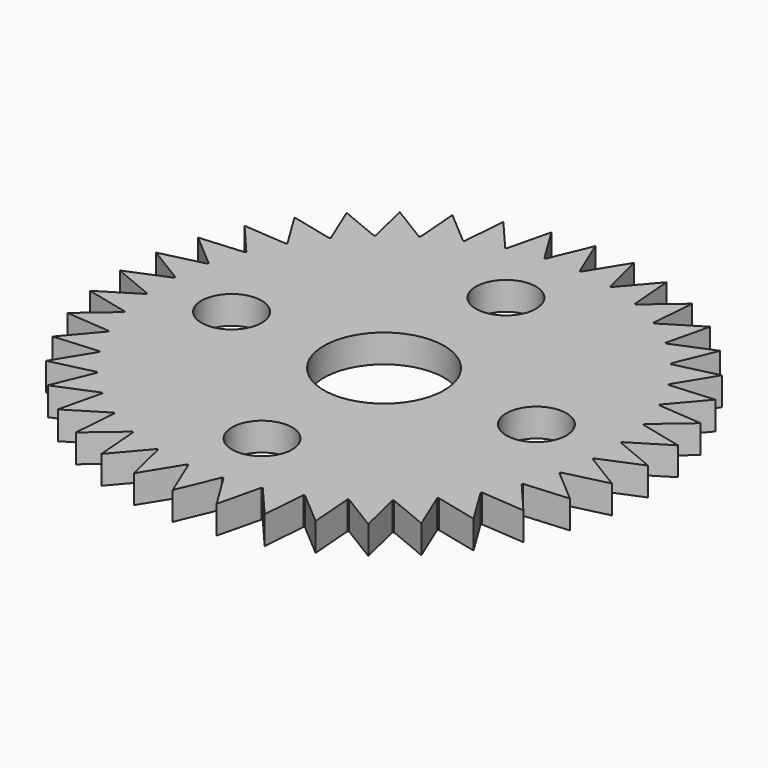
from build123d import *

# Parameters (mm, degrees)
F0_R     = 7.5
F0_R_2   = 15
F1_DEPTH = 7


with BuildPart() as f1:
    # F0 (on Top) → F1 (new body)
    with BuildSketch(Plane.XY):
        with BuildLine():
            ThreePointArc((55.694874, -4.217312), (55.814442, -2.110162), (55.854316, 0))
            ThreePointArc((55.854316, 0), (55.814442, 2.110162), (55.694874, 4.217312))
            ThreePointArc((55.694874, 4.217312), (55.682136, 4.382279), (55.66891, 4.547208))
            ThreePointArc((55.66891, 4.547208), (55.166657, 8.73754), (54.349444, 12.877988))
            ThreePointArc((54.349444, 12.877988), (54.311057, 13.038931), (54.272194, 13.19976))
            ThreePointArc((54.272194, 13.19976), (53.120612, 17.259933), (51.665751, 21.221565))
            ThreePointArc((51.665751, 21.221565), (51.60266, 21.374522), (51.539115, 21.527291))
            ThreePointArc((51.539115, 21.527291), (49.76656, 25.357329), (47.709876, 29.042596))
            ThreePointArc((47.709876, 29.042596), (47.623634, 29.1838), (47.536973, 29.324748))
            ThreePointArc((47.536973, 29.324748), (45.187091, 32.830343), (42.579225, 36.148502))
            ThreePointArc((42.579225, 36.148502), (42.471955, 36.274477), (42.364313, 36.400133))
            ThreePointArc((42.364313, 36.400133), (39.494966, 39.494966), (36.400133, 42.364313))
            ThreePointArc((36.400133, 42.364313), (36.274477, 42.471955), (36.148502, 42.579225))
            ThreePointArc((36.148502, 42.579225), (32.830343, 45.187091), (29.324748, 47.536973))
            ThreePointArc((29.324748, 47.536973), (29.1838, 47.623634), (29.042596, 47.709876))
            ThreePointArc((29.042596, 47.709876), (25.357329, 49.76656), (21.527291, 51.539115))
            ThreePointArc((21.527291, 51.539115), (21.374522, 51.60266), (21.221565, 51.665751))
            ThreePointArc((21.221565, 51.665751), (17.259933, 53.120612), (13.19976, 54.272194))
            ThreePointArc((13.19976, 54.272194), (13.038931, 54.311057), (12.877988, 54.349444))
            ThreePointArc((12.877988, 54.349444), (8.73754, 55.166657), (4.547208, 55.66891))
            ThreePointArc((4.547208, 55.66891), (4.382279, 55.682136), (4.217312, 55.694874))
            ThreePointArc((4.217312, 55.694874), (0, 55.854316), (-4.217312, 55.694874))
            ThreePointArc((-4.217312, 55.694874), (-4.382279, 55.682136), (-4.547208, 55.66891))
            ThreePointArc((-4.547208, 55.66891), (-8.73754, 55.166657), (-12.877988, 54.349444))
            ThreePointArc((-12.877988, 54.349444), (-13.038931, 54.311057), (-13.19976, 54.272194))
            ThreePointArc((-13.19976, 54.272194), (-17.259933, 53.120612), (-21.221565, 51.665751))
            ThreePointArc((-21.221565, 51.665751), (-21.374522, 51.60266), (-21.527291, 51.539115))
            ThreePointArc((-21.527291, 51.539115), (-25.357329, 49.76656), (-29.042596, 47.709876))
            ThreePointArc((-29.042596, 47.709876), (-29.1838, 47.623634), (-29.324748, 47.536973))
            ThreePointArc((-29.324748, 47.536973), (-32.830343, 45.187091), (-36.148502, 42.579225))
            ThreePointArc((-36.148502, 42.579225), (-36.274477, 42.471955), (-36.400133, 42.364313))
            ThreePointArc((-36.400133, 42.364313), (-39.494966, 39.494966), (-42.364313, 36.400133))
            ThreePointArc((-42.364313, 36.400133), (-42.471955, 36.274477), (-42.579225, 36.148502))
            ThreePointArc((-42.579225, 36.148502), (-45.187091, 32.830343), (-47.536973, 29.324748))
            ThreePointArc((-47.536973, 29.324748), (-47.623634, 29.1838), (-47.709876, 29.042596))
            ThreePointArc((-47.709876, 29.042596), (-49.76656, 25.357329), (-51.539115, 21.527291))
            ThreePointArc((-51.539115, 21.527291), (-51.60266, 21.374522), (-51.665751, 21.221565))
            ThreePointArc((-51.665751, 21.221565), (-53.120612, 17.259933), (-54.272194, 13.19976))
            ThreePointArc((-54.272194, 13.19976), (-54.311057, 13.038931), (-54.349444, 12.877988))
            ThreePointArc((-54.349444, 12.877988), (-55.166657, 8.73754), (-55.66891, 4.547208))
            ThreePointArc((-55.66891, 4.547208), (-55.682136, 4.382279), (-55.694874, 4.217312))
            ThreePointArc((-55.694874, 4.217312), (-55.854316, 0), (-55.694874, -4.217312))
            ThreePointArc((-55.694874, -4.217312), (-55.682136, -4.382279), (-55.66891, -4.547208))
            ThreePointArc((-55.66891, -4.547208), (-55.166657, -8.73754), (-54.349444, -12.877988))
            ThreePointArc((-54.349444, -12.877988), (-54.311057, -13.038931), (-54.272194, -13.19976))
            ThreePointArc((-54.272194, -13.19976), (-53.120612, -17.259933), (-51.665751, -21.221565))
            ThreePointArc((-51.665751, -21.221565), (-51.60266, -21.374522), (-51.539115, -21.527291))
            ThreePointArc((-51.539115, -21.527291), (-49.76656, -25.357329), (-47.709876, -29.042596))
            ThreePointArc((-47.709876, -29.042596), (-47.623634, -29.1838), (-47.536973, -29.324748))
            ThreePointArc((-47.536973, -29.324748), (-45.187091, -32.830343), (-42.579225, -36.148502))
            ThreePointArc((-42.579225, -36.148502), (-42.471955, -36.274477), (-42.364313, -36.400133))
            ThreePointArc((-42.364313, -36.400133), (-39.494966, -39.494966), (-36.400133, -42.364313))
            ThreePointArc((-36.400133, -42.364313), (-36.274477, -42.471955), (-36.148502, -42.579225))
            ThreePointArc((-36.148502, -42.579225), (-32.830343, -45.187091), (-29.324748, -47.536973))
            ThreePointArc((-29.324748, -47.536973), (-29.1838, -47.623634), (-29.042596, -47.709876))
            ThreePointArc((-29.042596, -47.709876), (-25.357329, -49.76656), (-21.527291, -51.539115))
            ThreePointArc((-21.527291, -51.539115), (-21.374522, -51.60266), (-21.221565, -51.665751))
            ThreePointArc((-21.221565, -51.665751), (-17.259933, -53.120612), (-13.19976, -54.272194))
            ThreePointArc((-13.19976, -54.272194), (-13.038931, -54.311057), (-12.877988, -54.349444))
            ThreePointArc((-12.877988, -54.349444), (-8.73754, -55.166657), (-4.547208, -55.66891))
            ThreePointArc((-4.547208, -55.66891), (-4.382279, -55.682136), (-4.217312, -55.694874))
            ThreePointArc((-4.217312, -55.694874), (0, -55.854316), (4.217312, -55.694874))
            ThreePointArc((4.217312, -55.694874), (4.382279, -55.682136), (4.547208, -55.66891))
            ThreePointArc((4.547208, -55.66891), (8.73754, -55.166657), (12.877988, -54.349444))
            ThreePointArc((12.877988, -54.349444), (13.038931, -54.311057), (13.19976, -54.272194))
            ThreePointArc((13.19976, -54.272194), (17.259933, -53.120612), (21.221565, -51.665751))
            ThreePointArc((21.221565, -51.665751), (21.374522, -51.60266), (21.527291, -51.539115))
            ThreePointArc((21.527291, -51.539115), (25.357329, -49.76656), (29.042596, -47.709876))
            ThreePointArc((29.042596, -47.709876), (29.1838, -47.623634), (29.324748, -47.536973))
            ThreePointArc((29.324748, -47.536973), (32.830343, -45.187091), (36.148502, -42.579225))
            ThreePointArc((36.148502, -42.579225), (36.274477, -42.471955), (36.400133, -42.364313))
            ThreePointArc((36.400133, -42.364313), (39.494966, -39.494966), (42.364313, -36.400133))
            ThreePointArc((42.364313, -36.400133), (42.471955, -36.274477), (42.579225, -36.148502))
            ThreePointArc((42.579225, -36.148502), (45.187091, -32.830343), (47.536973, -29.324748))
            ThreePointArc((47.536973, -29.324748), (47.623634, -29.1838), (47.709876, -29.042596))
            ThreePointArc((47.709876, -29.042596), (49.76656, -25.357329), (51.539115, -21.527291))
            ThreePointArc((51.539115, -21.527291), (51.60266, -21.374522), (51.665751, -21.221565))
            ThreePointArc((51.665751, -21.221565), (53.120612, -17.259933), (54.272194, -13.19976))
            ThreePointArc((54.272194, -13.19976), (54.311057, -13.038931), (54.349444, -12.877988))
            ThreePointArc((54.349444, -12.877988), (55.166657, -8.73754), (55.66891, -4.547208))
            ThreePointArc((55.66891, -4.547208), (55.682136, -4.382279), (55.694874, -4.217312))
        make_face()
        with Locations((0, -38)):
            Circle(F0_R, mode=Mode.SUBTRACT)
        with Locations((-38, 0)):
            Circle(F0_R, mode=Mode.SUBTRACT)
        Circle(F0_R_2, mode=Mode.SUBTRACT)
        with Locations((38, 0)):
            Circle(F0_R, mode=Mode.SUBTRACT)
        with Locations((0, 38)):
            Circle(F0_R, mode=Mode.SUBTRACT)
        with BuildLine():
            ThreePointArc((55.694874, 4.217312), (55.814442, 2.110162), (55.854316, 0))
            ThreePointArc((55.854316, 0), (55.814442, -2.110162), (55.694874, -4.217312))
            Line((55.694874, -4.217312), (65.854316, 0))
            Line((65.854316, 0), (55.694874, 4.217312))
        make_face()
        with BuildLine():
            ThreePointArc((54.349444, 12.877988), (55.166657, 8.73754), (55.66891, 4.547208))
            Line((55.66891, 4.547208), (65.043541, 10.301885))
            Line((65.043541, 10.301885), (54.349444, 12.877988))
        make_face()
        with BuildLine():
            Line((65.043541, -10.301885), (55.66891, -4.547208))
            ThreePointArc((55.66891, -4.547208), (55.166657, -8.73754), (54.349444, -12.877988))
            Line((54.349444, -12.877988), (65.043541, -10.301885))
        make_face()
        with BuildLine():
            ThreePointArc((51.665751, 21.221565), (53.120612, 17.259933), (54.272194, 13.19976))
            Line((54.272194, 13.19976), (62.631177, 20.350103))
            Line((62.631177, 20.350103), (51.665751, 21.221565))
        make_face()
        with BuildLine():
            Line((62.631177, -20.350103), (54.272194, -13.19976))
            ThreePointArc((54.272194, -13.19976), (53.120612, -17.259933), (51.665751, -21.221565))
            Line((51.665751, -21.221565), (62.631177, -20.350103))
        make_face()
        with BuildLine():
            ThreePointArc((47.709876, 29.042596), (49.76656, 25.357329), (51.539115, 21.527291))
            Line((51.539115, 21.527291), (58.676626, 29.897234))
            Line((58.676626, 29.897234), (47.709876, 29.042596))
        make_face()
        with BuildLine():
            Line((58.676626, -29.897234), (51.539115, -21.527291))
            ThreePointArc((51.539115, -21.527291), (49.76656, -25.357329), (47.709876, -29.042596))
            Line((47.709876, -29.042596), (58.676626, -29.897234))
        make_face()
        with BuildLine():
            ThreePointArc((42.579225, 36.148502), (45.187091, 32.830343), (47.536973, 29.324748))
            Line((47.536973, 29.324748), (53.277261, 38.708196))
            Line((53.277261, 38.708196), (42.579225, 36.148502))
        make_face()
        with BuildLine():
            Line((53.277261, -38.708196), (47.536973, -29.324748))
            ThreePointArc((47.536973, -29.324748), (45.187091, -32.830343), (42.579225, -36.148502))
            Line((42.579225, -36.148502), (53.277261, -38.708196))
        make_face()
        with BuildLine():
            ThreePointArc((36.400133, 42.364313), (39.494966, 39.494966), (42.364313, 36.400133))
            Line((42.364313, 36.400133), (46.566034, 46.566034))
            Line((46.566034, 46.566034), (36.400133, 42.364313))
        make_face()
        with BuildLine():
            Line((46.566034, -46.566034), (42.364313, -36.400133))
            ThreePointArc((42.364313, -36.400133), (39.494966, -39.494966), (36.400133, -42.364313))
            Line((36.400133, -42.364313), (46.566034, -46.566034))
        make_face()
        with BuildLine():
            ThreePointArc((29.324748, 47.536973), (32.830343, 45.187091), (36.148502, 42.579225))
            Line((36.148502, 42.579225), (38.708196, 53.277261))
            Line((38.708196, 53.277261), (29.324748, 47.536973))
        make_face()
        with BuildLine():
            Line((38.708196, -53.277261), (36.148502, -42.579225))
            ThreePointArc((36.148502, -42.579225), (32.830343, -45.187091), (29.324748, -47.536973))
            Line((29.324748, -47.536973), (38.708196, -53.277261))
        make_face()
        with BuildLine():
            ThreePointArc((21.527291, 51.539115), (25.357329, 49.76656), (29.042596, 47.709876))
            Line((29.042596, 47.709876), (29.897234, 58.676626))
            Line((29.897234, 58.676626), (21.527291, 51.539115))
        make_face()
        with BuildLine():
            Line((29.897234, -58.676626), (29.042596, -47.709876))
            ThreePointArc((29.042596, -47.709876), (25.357329, -49.76656), (21.527291, -51.539115))
            Line((21.527291, -51.539115), (29.897234, -58.676626))
        make_face()
        with BuildLine():
            ThreePointArc((13.19976, 54.272194), (17.259933, 53.120612), (21.221565, 51.665751))
            Line((21.221565, 51.665751), (20.350103, 62.631177))
            Line((20.350103, 62.631177), (13.19976, 54.272194))
        make_face()
        with BuildLine():
            Line((20.350103, -62.631177), (21.221565, -51.665751))
            ThreePointArc((21.221565, -51.665751), (17.259933, -53.120612), (13.19976, -54.272194))
            Line((13.19976, -54.272194), (20.350103, -62.631177))
        make_face()
        with BuildLine():
            ThreePointArc((4.547208, 55.66891), (8.73754, 55.166657), (12.877988, 54.349444))
            Line((12.877988, 54.349444), (10.301885, 65.043541))
            Line((10.301885, 65.043541), (4.547208, 55.66891))
        make_face()
        with BuildLine():
            Line((10.301885, -65.043541), (12.877988, -54.349444))
            ThreePointArc((12.877988, -54.349444), (8.73754, -55.166657), (4.547208, -55.66891))
            Line((4.547208, -55.66891), (10.301885, -65.043541))
        make_face()
        with BuildLine():
            ThreePointArc((-4.217312, 55.694874), (0, 55.854316), (4.217312, 55.694874))
            Line((4.217312, 55.694874), (0, 65.854316))
            Line((0, 65.854316), (-4.217312, 55.694874))
        make_face()
        with BuildLine():
            Line((0, -65.854316), (4.217312, -55.694874))
            ThreePointArc((4.217312, -55.694874), (0, -55.854316), (-4.217312, -55.694874))
            Line((-4.217312, -55.694874), (0, -65.854316))
        make_face()
        with BuildLine():
            ThreePointArc((-12.877988, 54.349444), (-8.73754, 55.166657), (-4.547208, 55.66891))
            Line((-4.547208, 55.66891), (-10.301885, 65.043541))
            Line((-10.301885, 65.043541), (-12.877988, 54.349444))
        make_face()
        with BuildLine():
            Line((-10.301885, -65.043541), (-4.547208, -55.66891))
            ThreePointArc((-4.547208, -55.66891), (-8.73754, -55.166657), (-12.877988, -54.349444))
            Line((-12.877988, -54.349444), (-10.301885, -65.043541))
        make_face()
        with BuildLine():
            ThreePointArc((-21.221565, 51.665751), (-17.259933, 53.120612), (-13.19976, 54.272194))
            Line((-13.19976, 54.272194), (-20.350103, 62.631177))
            Line((-20.350103, 62.631177), (-21.221565, 51.665751))
        make_face()
        with BuildLine():
            Line((-20.350103, -62.631177), (-13.19976, -54.272194))
            ThreePointArc((-13.19976, -54.272194), (-17.259933, -53.120612), (-21.221565, -51.665751))
            Line((-21.221565, -51.665751), (-20.350103, -62.631177))
        make_face()
        with BuildLine():
            ThreePointArc((-29.042596, 47.709876), (-25.357329, 49.76656), (-21.527291, 51.539115))
            Line((-21.527291, 51.539115), (-29.897234, 58.676626))
            Line((-29.897234, 58.676626), (-29.042596, 47.709876))
        make_face()
        with BuildLine():
            Line((-29.897234, -58.676626), (-21.527291, -51.539115))
            ThreePointArc((-21.527291, -51.539115), (-25.357329, -49.76656), (-29.042596, -47.709876))
            Line((-29.042596, -47.709876), (-29.897234, -58.676626))
        make_face()
        with BuildLine():
            ThreePointArc((-36.148502, 42.579225), (-32.830343, 45.187091), (-29.324748, 47.536973))
            Line((-29.324748, 47.536973), (-38.708196, 53.277261))
            Line((-38.708196, 53.277261), (-36.148502, 42.579225))
        make_face()
        with BuildLine():
            Line((-38.708196, -53.277261), (-29.324748, -47.536973))
            ThreePointArc((-29.324748, -47.536973), (-32.830343, -45.187091), (-36.148502, -42.579225))
            Line((-36.148502, -42.579225), (-38.708196, -53.277261))
        make_face()
        with BuildLine():
            ThreePointArc((-42.364313, 36.400133), (-39.494966, 39.494966), (-36.400133, 42.364313))
            Line((-36.400133, 42.364313), (-46.566034, 46.566034))
            Line((-46.566034, 46.566034), (-42.364313, 36.400133))
        make_face()
        with BuildLine():
            Line((-46.566034, -46.566034), (-36.400133, -42.364313))
            ThreePointArc((-36.400133, -42.364313), (-39.494966, -39.494966), (-42.364313, -36.400133))
            Line((-42.364313, -36.400133), (-46.566034, -46.566034))
        make_face()
        with BuildLine():
            ThreePointArc((-47.536973, 29.324748), (-45.187091, 32.830343), (-42.579225, 36.148502))
            Line((-42.579225, 36.148502), (-53.277261, 38.708196))
            Line((-53.277261, 38.708196), (-47.536973, 29.324748))
        make_face()
        with BuildLine():
            Line((-53.277261, -38.708196), (-42.579225, -36.148502))
            ThreePointArc((-42.579225, -36.148502), (-45.187091, -32.830343), (-47.536973, -29.324748))
            Line((-47.536973, -29.324748), (-53.277261, -38.708196))
        make_face()
        with BuildLine():
            ThreePointArc((-51.539115, 21.527291), (-49.76656, 25.357329), (-47.709876, 29.042596))
            Line((-47.709876, 29.042596), (-58.676626, 29.897234))
            Line((-58.676626, 29.897234), (-51.539115, 21.527291))
        make_face()
        with BuildLine():
            Line((-58.676626, -29.897234), (-47.709876, -29.042596))
            ThreePointArc((-47.709876, -29.042596), (-49.76656, -25.357329), (-51.539115, -21.527291))
            Line((-51.539115, -21.527291), (-58.676626, -29.897234))
        make_face()
        with BuildLine():
            ThreePointArc((-54.272194, 13.19976), (-53.120612, 17.259933), (-51.665751, 21.221565))
            Line((-51.665751, 21.221565), (-62.631177, 20.350103))
            Line((-62.631177, 20.350103), (-54.272194, 13.19976))
        make_face()
        with BuildLine():
            Line((-62.631177, -20.350103), (-51.665751, -21.221565))
            ThreePointArc((-51.665751, -21.221565), (-53.120612, -17.259933), (-54.272194, -13.19976))
            Line((-54.272194, -13.19976), (-62.631177, -20.350103))
        make_face()
        with BuildLine():
            ThreePointArc((-55.66891, 4.547208), (-55.166657, 8.73754), (-54.349444, 12.877988))
            Line((-54.349444, 12.877988), (-65.043541, 10.301885))
            Line((-65.043541, 10.301885), (-55.66891, 4.547208))
        make_face()
        with BuildLine():
            Line((-65.043541, -10.301885), (-54.349444, -12.877988))
            ThreePointArc((-54.349444, -12.877988), (-55.166657, -8.73754), (-55.66891, -4.547208))
            Line((-55.66891, -4.547208), (-65.043541, -10.301885))
        make_face()
        with BuildLine():
            ThreePointArc((-55.694874, -4.217312), (-55.854316, 0), (-55.694874, 4.217312))
            Line((-55.694874, 4.217312), (-65.854316, 0))
            Line((-65.854316, 0), (-55.694874, -4.217312))
        make_face()
    extrude(amount=F1_DEPTH)


solid = f1.part
